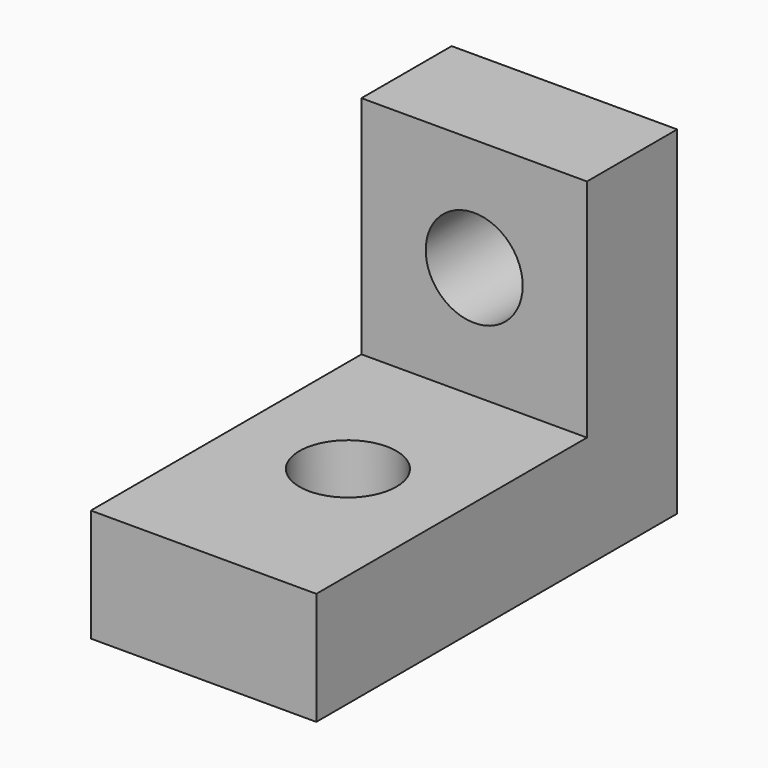
from build123d import *

# Parameters (mm, degrees)
F0_W     = 10
F0_H     = 5
F1_DEPTH = 20
F2_W     = 5
F2_H     = 10
F3_DEPTH = 5
F4_R     = 2.15
F5_DEPTH = 12.5
F6_R     = 2.15
F7_DEPTH = 5.1


with BuildPart() as f1:
    # F0 (on Front) → F1 (new body)
    with BuildSketch(Plane.XZ):
        Rectangle(F0_W, F0_H)
    extrude(amount=F1_DEPTH)

    # F2 (on Right) → F3 (join, symmetric)
    with BuildSketch(Plane.YZ):
        with Locations((-2.5, 7.5)):
            Rectangle(F2_W, F2_H)
    extrude(amount=F3_DEPTH, both=True)

    # F4 (on Top) → F5 (cut, symmetric)
    with BuildSketch(Plane.XY):
        with Locations((0, -12)):
            Circle(F4_R)
    extrude(amount=F5_DEPTH, both=True, mode=Mode.SUBTRACT)

    # F6 (on Front) → F7 (cut)
    with BuildSketch(Plane.XZ):
        with Locations((0, 7.5)):
            Circle(F6_R)
    extrude(amount=F7_DEPTH, mode=Mode.SUBTRACT)


solid = f1.part
